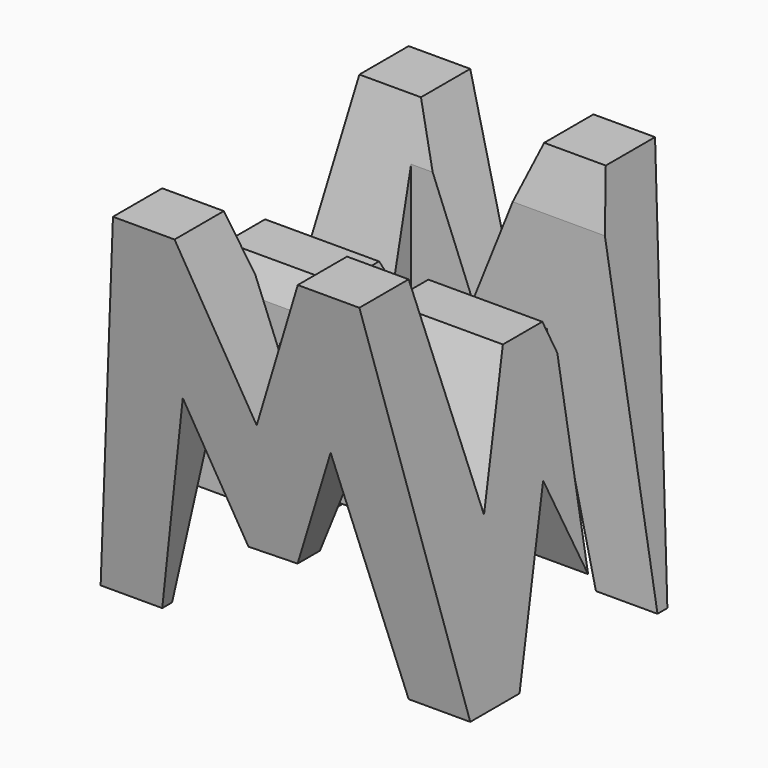
from build123d import *

# Parameters (mm, degrees)
F0_W      = 38.1
F0_H      = 38.1
F1_DEPTH  = 38.1
F6_DEPTH  = 38.1
F8_DEPTH  = 38.1
F9_W      = 25.4
F9_H      = 7.62
F10_DEPTH = 38.1


with BuildPart() as f1:
    # F0 (on Front) → F1 (new body)
    with BuildSketch(Plane.XZ):
        with Locations((19.05, 19.05)):
            Rectangle(F0_W, F0_H)
    extrude(amount=F1_DEPTH)

    # F5 (on offset) → F6 (cut)
    with BuildSketch(Plane.YZ.offset(38.1)):
        Polygon((-11.43, 15.875), (-6.35, 38.1), (-31.75, 38.1), (-26.67, 15.875), (-21.59, 28.575), (-16.51, 28.575), align=None)
        Polygon((-31.75, 0), (-38.1, 38.1), (-38.1, 0), align=None)
        Polygon((-25.4, 0), (-12.7, 0), (-19.05, 15.875), align=None)
        Polygon((-6.35, 0), (0, 0), (0, 38.1), align=None)
    extrude(amount=-F6_DEPTH, mode=Mode.SUBTRACT)

    # F7 (on Front) → F8 (cut)
    with BuildSketch(Plane.XZ):
        Polygon((11.43, 22.225), (6.35, 0), (31.75, 0), (26.67, 22.225), (21.59, 9.650744), (16.51, 9.525), align=None)
        Polygon((31.75, 38.1), (38.1, 0), (38.1, 38.1), align=None)
        Polygon((25.4, 38.1), (12.7, 38.1), (19.05, 22.225), align=None)
        Polygon((0, 38.1), (0, 0), (6.35, 38.1), align=None)
    extrude(amount=F8_DEPTH, mode=Mode.SUBTRACT)

    # F9 (on offset) → F10 (cut)
    with BuildSketch(Plane.XY.offset(38.1)):
        with Locations((25.4, -11.43)):
            Rectangle(F9_W, F9_H)
        with Locations((12.7, -26.67)):
            Rectangle(F9_W, F9_H)
    extrude(amount=-F10_DEPTH, mode=Mode.SUBTRACT)


solid = f1.part
